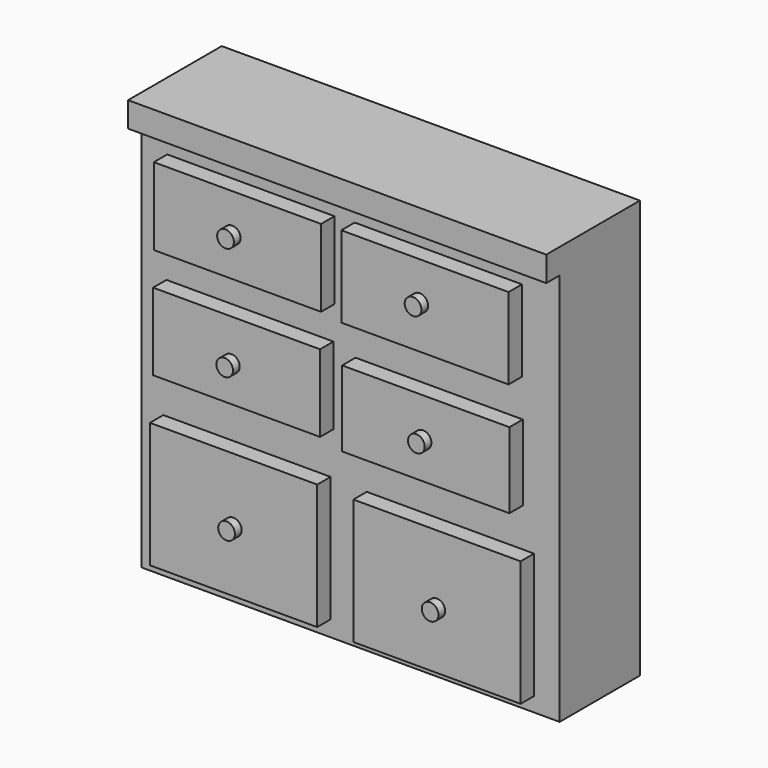
from build123d import *

# Parameters (mm, degrees)
F0_W      = 50
F0_H      = 12
F1_DEPTH  = 50
F3_W      = 20
F3_H      = 9.72515
F4_DEPTH  = 2
F2_W      = 20
F2_H      = 9.250753
F5_DEPTH  = 2
F6_W      = 19.959261
F6_H      = 9.224868
F7_DEPTH  = 2
F8_W      = 20
F8_H      = 9.057143
F9_DEPTH  = 2
F10_W     = 20
F10_H     = 15
F11_DEPTH = 2
F12_W     = 20
F12_H     = 15
F13_DEPTH = 2
F14_R     = 1
F15_DEPTH = 1
F16_W     = 50
F16_H     = 3
F17_DEPTH = 2
F18_R     = 1
F19_DEPTH = 1
F20_R     = 1
F21_DEPTH = 1
F22_R     = 1
F23_DEPTH = 1
F24_R     = 1
F25_DEPTH = 1


with BuildPart() as f1:
    # F0 (on Top) → F1 (new body)
    with BuildSketch(Plane.XY):
        with Locations((25, 6)):
            Rectangle(F0_W, F0_H)
    extrude(amount=F1_DEPTH)

    # F3 (on face) → F4 (join)
    with BuildSketch(Plane.XZ):
        with Locations((35.493044, 39.7308)):
            Rectangle(F3_W, F3_H)
    extrude(amount=F4_DEPTH)

    # F2 (on face) → F5 (join)
    with BuildSketch(Plane.XZ):
        with Locations((13.077754, 39.849401)):
            Rectangle(F2_W, F2_H)
    extrude(amount=F5_DEPTH)

    # F6 (on face) → F7 (join)
    with BuildSketch(Plane.XZ):
        with Locations((12.97327, 26.628648)):
            Rectangle(F6_W, F6_H)
    extrude(amount=F7_DEPTH)

    # F8 (on face) → F9 (join)
    with BuildSketch(Plane.XZ):
        with Locations((35.595761, 25.873886)):
            Rectangle(F8_W, F8_H)
    extrude(amount=F9_DEPTH)

    # F10 (on face) → F11 (join)
    with BuildSketch(Plane.XZ):
        with Locations((12.617452, 9.389227)):
            Rectangle(F10_W, F10_H)
    extrude(amount=F11_DEPTH)

    # F12 (on face) → F13 (join)
    with BuildSketch(Plane.XZ):
        with Locations((36.937559, 9.221502)):
            Rectangle(F12_W, F12_H)
    extrude(amount=F13_DEPTH)

    # F14 (on face) → F15 (join)
    with BuildSketch(Plane.XZ.offset(2)):
        with Locations((12.452937, 39.849401)):
            Circle(F14_R)
    extrude(amount=F15_DEPTH)

    # F16 (on face) → F17 (join)
    with BuildSketch(Plane.XZ):
        with Locations((25, 48.5)):
            Rectangle(F16_W, F16_H)
    extrude(amount=F17_DEPTH)

    # F18 (on face) → F19 (join)
    with BuildSketch(Plane.XZ.offset(2)):
        with Locations((34.871425, 40.019318)):
            Circle(F18_R)
    extrude(amount=F19_DEPTH)

    # F20 (on face) → F21 (join)
    with BuildSketch(Plane.XZ.offset(2)):
        with Locations((12.349669, 26.287466)):
            Circle(F20_R)
    extrude(amount=F21_DEPTH)

    # F22 (on face) → F23 (join)
    with BuildSketch(Plane.XZ.offset(2)):
        with Locations((35.268549, 25.72331)):
            Circle(F22_R)
    extrude(amount=F23_DEPTH)

    # F24 (on face) → F25 (join)
    with BuildSketch(Plane.XZ.offset(2)):
        with Locations((12.578998, 9.153273)):
            Circle(F24_R)
        with Locations((36.913071, 8.554894)):
            Circle(F24_R)
    extrude(amount=F25_DEPTH)


solid = f1.part
